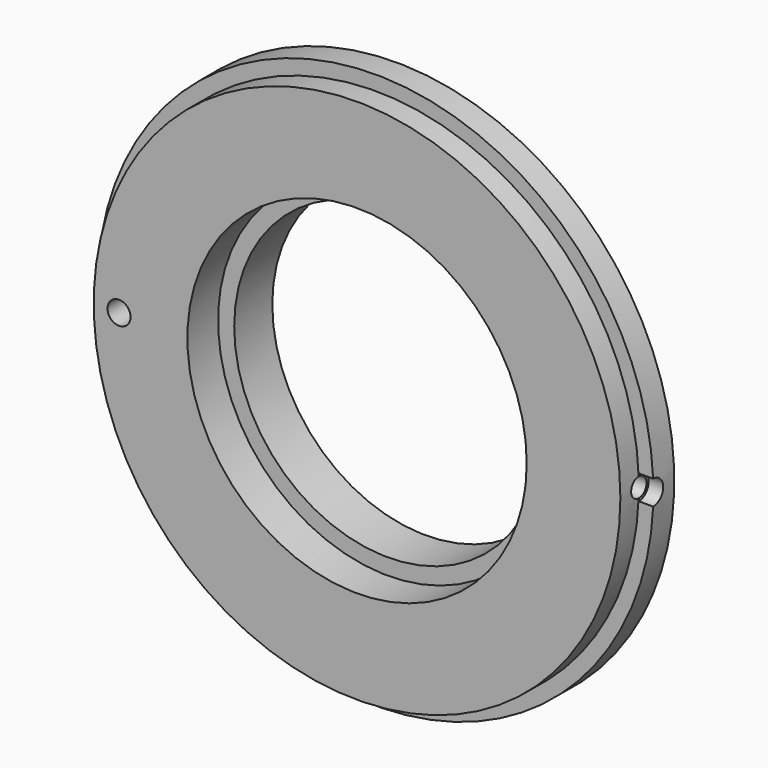
from build123d import *

# Parameters (mm, degrees)
F0_R      = 34.3
F1_DEPTH  = 3
F2_R      = 36.2
F3_DEPTH  = 3.4
F4_R      = 26.7
F5_DEPTH  = 4.8
F6_R      = 20
F7_DEPTH  = 6.2
F8_R      = 22.1
F9_DEPTH  = 5
F10_R     = 1.5
F11_DEPTH = 6.4
F13_R     = 1.6
F14_DEPTH = 1.9
F15_R     = 1.25
F16_DEPTH = 15


with BuildPart() as f1:
    # F0 (on Front) → F1 (new body)
    with BuildSketch(Plane.XZ):
        Circle(F0_R)
    extrude(amount=F1_DEPTH)

    # F2 (on face) → F3 (join)
    with BuildSketch(Plane(origin=(0, 0, 0), x_dir=(-1, 0, 0), z_dir=(0, 1, 0))):
        Circle(F2_R)
    extrude(amount=F3_DEPTH)

    # F4 (on face) → F5 (join)
    with BuildSketch(Plane(origin=(0, 3.4, 0), x_dir=(-1, 0, 0), z_dir=(0, 1, 0))):
        Circle(F4_R)
    extrude(amount=F5_DEPTH)

    # F6 (on face) → F7 (cut)
    with BuildSketch(Plane(origin=(0, 8.2, 0), x_dir=(-1, 0, 0), z_dir=(0, 1, 0))):
        Circle(F6_R)
    extrude(amount=-F7_DEPTH, mode=Mode.SUBTRACT)

    # F8 (on face) → F9 (cut)
    with BuildSketch(Plane.XZ.offset(3)):
        Circle(F8_R)
    extrude(amount=-F9_DEPTH, mode=Mode.SUBTRACT)

    # F10 (on face) → F11 (cut)
    with BuildSketch(Plane.XZ.offset(3)):
        with Locations((-31, 0)):
            Circle(F10_R)
    extrude(amount=-F11_DEPTH, mode=Mode.SUBTRACT)

    # F13 (on offset) → F14 (cut)
    with BuildSketch(Plane.YZ.offset(36.2)):
        Circle(F13_R)
    extrude(amount=-F14_DEPTH, mode=Mode.SUBTRACT)

    # F15 (on offset) → F16 (cut)
    with BuildSketch(Plane.YZ.offset(36.2)):
        Circle(F15_R)
    extrude(amount=-F16_DEPTH, mode=Mode.SUBTRACT)


solid = f1.part
